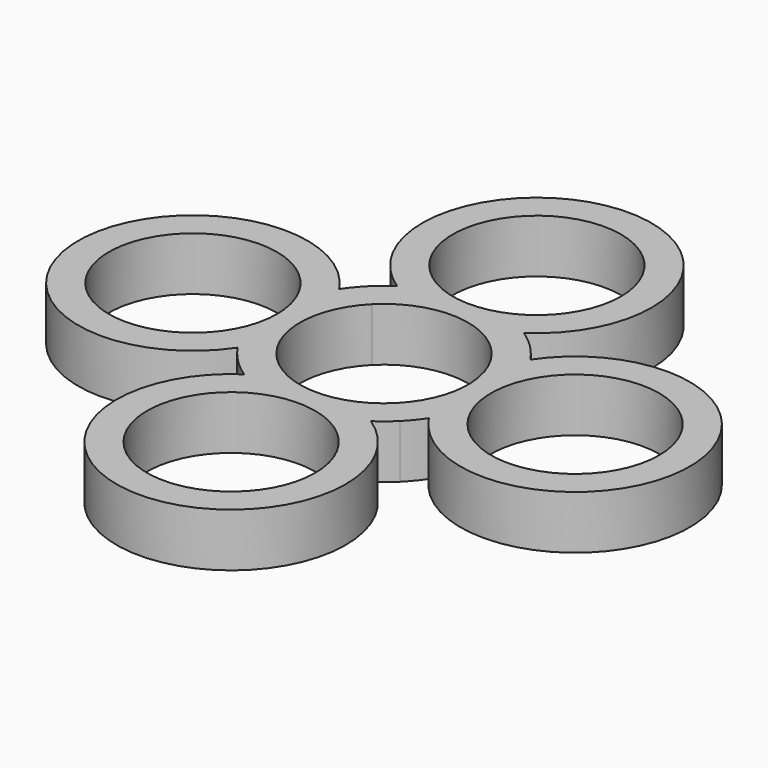
from build123d import *

# Parameters (mm, degrees)
F0_R     = 11
F1_DEPTH = 7


with BuildPart() as f1:
    # F0 (on Top) → F1 (new body)
    with BuildSketch(Plane.XY):
        with BuildLine():
            ThreePointArc((10.606602, 10.606602), (9.496388, 11.611142), (8.291562, 12.5))
            ThreePointArc((8.291562, 12.5), (0, 40), (-8.291562, 12.5))
            ThreePointArc((-8.291562, 12.5), (-9.496388, 11.611142), (-10.606602, 10.606602))
            ThreePointArc((-10.606602, 10.606602), (-11.611142, 9.496388), (-12.5, 8.291562))
            ThreePointArc((-12.5, 8.291562), (-40, 0), (-12.5, -8.291562))
            ThreePointArc((-12.5, -8.291562), (-11.611142, -9.496388), (-10.606602, -10.606602))
            ThreePointArc((-10.606602, -10.606602), (-9.496388, -11.611142), (-8.291562, -12.5))
            ThreePointArc((-8.291562, -12.5), (0, -40), (8.291562, -12.5))
            ThreePointArc((8.291562, -12.5), (9.496388, -11.611142), (10.606602, -10.606602))
            ThreePointArc((10.606602, -10.606602), (11.611142, -9.496388), (12.5, -8.291562))
            ThreePointArc((12.5, -8.291562), (40, 0), (12.5, 8.291562))
            ThreePointArc((12.5, 8.291562), (11.611142, 9.496388), (10.606602, 10.606602))
        make_face()
        with Locations((0, -25)):
            Circle(F0_R, mode=Mode.SUBTRACT)
        with Locations((-25, 0)):
            Circle(F0_R, mode=Mode.SUBTRACT)
        with BuildLine():
            ThreePointArc((-7.778175, 7.778175), (0, 11), (7.778175, 7.778175))
            ThreePointArc((7.778175, 7.778175), (11, 0), (7.778175, -7.778175))
            ThreePointArc((7.778175, -7.778175), (0, -11), (-7.778175, -7.778175))
            ThreePointArc((-7.778175, -7.778175), (-11, 0), (-7.778175, 7.778175))
        make_face(mode=Mode.SUBTRACT)
        with Locations((25, 0)):
            Circle(F0_R, mode=Mode.SUBTRACT)
        with Locations((0, 25)):
            Circle(F0_R, mode=Mode.SUBTRACT)
    extrude(amount=F1_DEPTH)


solid = f1.part
